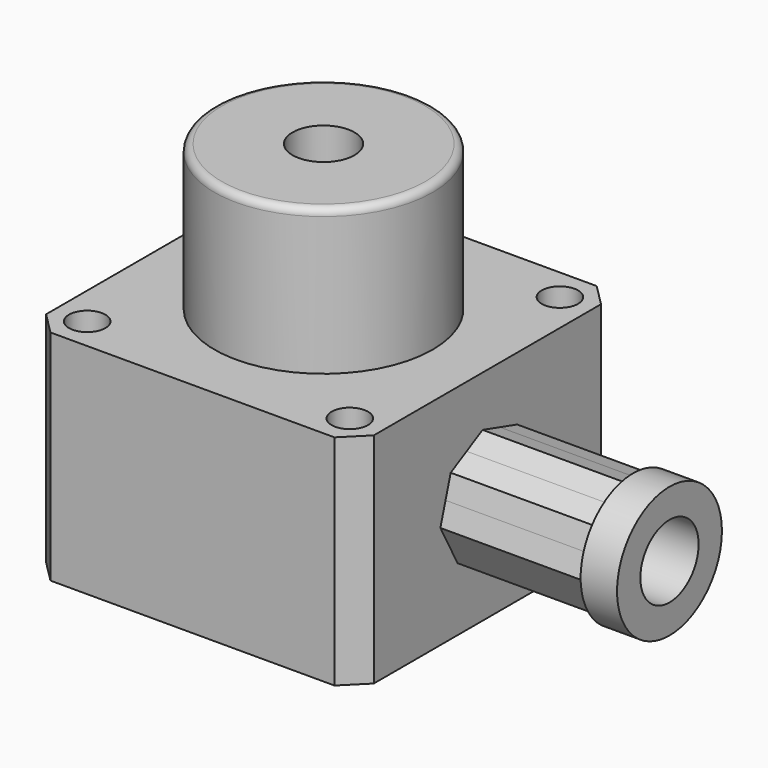
from build123d import *

# Parameters (mm, degrees)
F0_W      = 45
F0_H      = 45
F1_DEPTH  = 30
F2_SIZE   = 3
F4_D      = 5
F6_DEPTH  = 20
F7_R      = 9
F8_DEPTH  = 5
F10_D     = 10
F10_DEPTH = 30
F10_TIP   = 3.0043030951
F11_R     = 15
F12_DEPTH = 20
F13_R     = 1
F15_D     = 8.5


with BuildPart() as f1:
    # F0 (on Top) → F1 (new body)
    with BuildSketch(Plane.XY):
        with Locations((-22.5, -22.5)):
            Rectangle(F0_W, F0_H)
    extrude(amount=F1_DEPTH)

    # F2
    f2_edges = [f1.edges().sort_by_distance(p)[0] for p in [
        (-45, -45, 15),
        (0, -45, 15),
        (0, 0, 15),
        (-45, 0, 15),
    ]]
    chamfer(f2_edges, length=F2_SIZE)

    # F4 (through all)
    with Locations(Plane.XY.offset(30)):
        with Locations((-40.5312229203, -40.5312229203), (-40.5312229203, -4.4687770797), (-4.4687770797, -4.4687770797), (-4.4687770797, -40.5312229203)):
            Hole(F4_D / 2)

    # F5 (on face) → F6 (join)
    with BuildSketch(Plane.YZ):
        with BuildLine():
            ThreePointArc((-15.3121332332, 12.8588387864), (-15.0784435342, 13.9181036905), (-15, 15))
            ThreePointArc((-15, 15), (-15.2293520832, 16.8405648237), (-15.903381032, 18.5685596803))
            ThreePointArc((-15.903381032, 18.5685596803), (-17.7711474831, 20.8213360901), (-20.3588389028, 22.1878668015))
            ThreePointArc((-20.3588389028, 22.1878668015), (-23.2725024385, 22.4601099176), (-26.0685594955, 21.5966190679))
            ThreePointArc((-26.0685594955, 21.5966190679), (-28.3213359619, 19.7288526747), (-29.6878667454, 17.1411612856))
            ThreePointArc((-29.6878667454, 17.1411612856), (-29.9601099219, 14.2274976035), (-29.0966190145, 11.4314404058))
            ThreePointArc((-29.0966190145, 11.4314404058), (-27.2288526423, 9.1786640118), (-24.6411613131, 7.8121332628))
            ThreePointArc((-24.6411613131, 7.8121332628), (-21.7274976178, 7.5398900766), (-18.9314404058, 8.4033809855))
            ThreePointArc((-18.9314404058, 8.4033809855), (-16.6786639791, 10.271147398), (-15.3121332332, 12.8588387864))
        make_face()
        with BuildLine():
            ThreePointArc((-15.903381032, 18.5685596803), (-15.2293520832, 16.8405648237), (-15, 15))
            ThreePointArc((-15, 15), (-15.0784435342, 13.9181036905), (-15.3121332332, 12.8588387864))
            Line((-15.3121332332, 12.8588387864), (-14.4252352272, 15.8361507619))
            Line((-14.4252352272, 15.8361507619), (-15.903381032, 18.5685596803))
        make_face()
        with BuildLine():
            ThreePointArc((-20.3588389028, 22.1878668015), (-17.7711474831, 20.8213360901), (-15.903381032, 18.5685596803))
            Line((-15.903381032, 18.5685596803), (-17.3815269465, 21.3009688012))
            Line((-17.3815269465, 21.3009688012), (-20.3588389028, 22.1878668015))
        make_face()
        with BuildLine():
            Line((-16.1990311988, 9.8815269465), (-15.3121332332, 12.8588387864))
            ThreePointArc((-15.3121332332, 12.8588387864), (-16.6786639791, 10.271147398), (-18.9314404058, 8.4033809855))
            Line((-18.9314404058, 8.4033809855), (-16.1990311988, 9.8815269465))
        make_face()
        with BuildLine():
            ThreePointArc((-26.0685594955, 21.5966190679), (-23.2725024385, 22.4601099176), (-20.3588389028, 22.1878668015))
            Line((-20.3588389028, 22.1878668015), (-23.3361507619, 23.0747647728))
            Line((-23.3361507619, 23.0747647728), (-26.0685594955, 21.5966190679))
        make_face()
        with BuildLine():
            Line((-21.6638492381, 6.9252352272), (-18.9314404058, 8.4033809855))
            ThreePointArc((-18.9314404058, 8.4033809855), (-21.7274976178, 7.5398900766), (-24.6411613131, 7.8121332628))
            Line((-24.6411613131, 7.8121332628), (-21.6638492381, 6.9252352272))
        make_face()
        with BuildLine():
            ThreePointArc((-29.6878667454, 17.1411612856), (-28.3213359619, 19.7288526747), (-26.0685594955, 21.5966190679))
            Line((-26.0685594955, 21.5966190679), (-28.8009688012, 20.1184730535))
            Line((-28.8009688012, 20.1184730535), (-29.6878667454, 17.1411612856))
        make_face()
        with BuildLine():
            Line((-27.6184730535, 8.6990311988), (-24.6411613131, 7.8121332628))
            ThreePointArc((-24.6411613131, 7.8121332628), (-27.2288526423, 9.1786640118), (-29.0966190145, 11.4314404058))
            Line((-29.0966190145, 11.4314404058), (-27.6184730535, 8.6990311988))
        make_face()
        with BuildLine():
            ThreePointArc((-29.0966190145, 11.4314404058), (-29.9601099219, 14.2274976035), (-29.6878667454, 17.1411612856))
            Line((-29.6878667454, 17.1411612856), (-30.5747647728, 14.1638492381))
            Line((-30.5747647728, 14.1638492381), (-29.0966190145, 11.4314404058))
        make_face()
    extrude(amount=F6_DEPTH)

    # F7 (on face) → F8 (join)
    with BuildSketch(Plane.YZ.offset(20)):
        with Locations((-22.5, 15)):
            Circle(F7_R)
        Polygon((-29.687866787, 17.1411611458), (-22.5, 15), (-24.6411611458, 7.812133213), align=None, mode=Mode.SUBTRACT)
        Polygon((-24.6411611458, 7.812133213), (-22.5, 15), (-29.687866787, 17.1411611458), align=None)
    extrude(amount=F8_DEPTH)

    # F10
    with Locations(Plane.YZ.offset(25)):
        with Locations((-22.5, 15)):
            Hole(F10_D / 2, depth=F10_DEPTH)
            with Locations((0, 0, -(F10_DEPTH + F10_TIP / 2))):  # 118° drill point
                Cone(0, F10_D / 2, F10_TIP, mode=Mode.SUBTRACT)

    # F11 (on face) → F12 (join)
    with BuildSketch(Plane.XY.offset(30)):
        with Locations((-22.5, -22.5)):
            Circle(F11_R)
    extrude(amount=F12_DEPTH)

    # F13
    f13_edges = [f1.edges().sort_by_distance(p)[0] for p in [
        (-37.5, -22.5, 50),
    ]]
    fillet(f13_edges, radius=F13_R)

    # F15 (through all)
    with Locations(Plane.XY.offset(50)):
        with Locations((-22.5, -22.5)):
            Hole(F15_D / 2)


solid = f1.part
